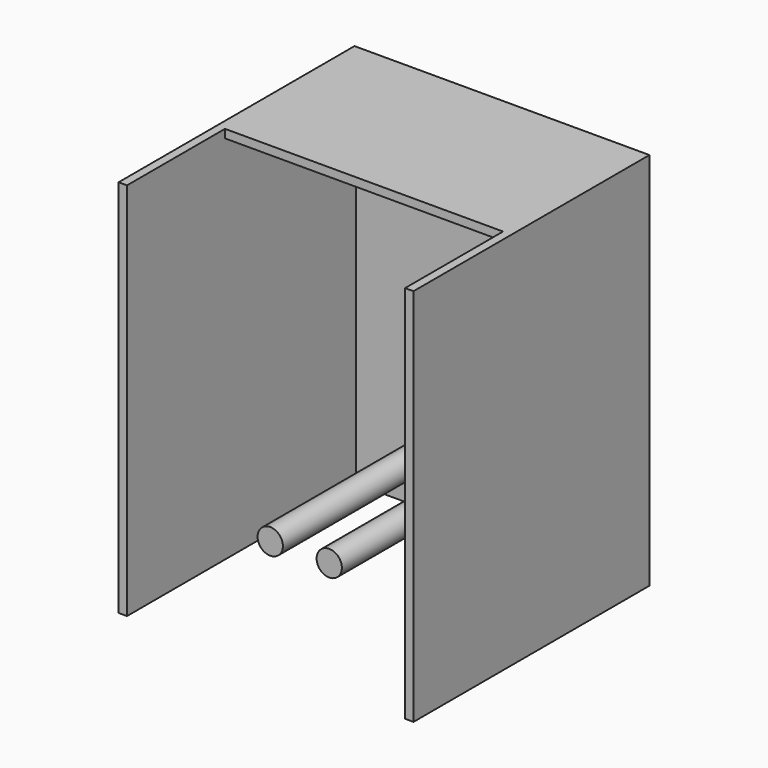
from build123d import *

# Parameters (mm, degrees)
F0_W     = 70
F0_H     = 90
F0_R     = 3
F1_DEPTH = 2
F2_W     = 68
F2_H     = 90
F3_DEPTH = 2
F4_W     = 68
F4_H     = 90
F5_DEPTH = 2
F6_W     = 66
F6_H     = 38.9259047806
F7_DEPTH = 2
F8_R     = 3
F9_DEPTH = 60


with BuildPart() as f1:
    # F0 (on Front) → F1 (new body)
    with BuildSketch(Plane.XZ):
        with Locations((35, 45)):
            Rectangle(F0_W, F0_H)
        with Locations((28, 20)):
            Circle(F0_R, mode=Mode.SUBTRACT)
        with Locations((42, 20)):
            Circle(F0_R, mode=Mode.SUBTRACT)
    extrude(amount=-F1_DEPTH)

    # F2 (on face) → F3 (join)
    with BuildSketch(Plane(origin=(0, 0, 0), x_dir=(0, -1, 0), z_dir=(-1, 0, 0))):
        with Locations((34, 45)):
            Rectangle(F2_W, F2_H)
    extrude(amount=-F3_DEPTH)

    # F4 (on face) → F5 (join)
    with BuildSketch(Plane.YZ.offset(70)):
        with Locations((-34, 45)):
            Rectangle(F4_W, F4_H)
    extrude(amount=-F5_DEPTH)

    # F6 (on face) → F7 (join)
    with BuildSketch(Plane.XY.offset(90)):
        with Locations((35, -19.4629523903)):
            Rectangle(F6_W, F6_H)
    extrude(amount=-F7_DEPTH)


with BuildPart() as f9:
    # F8 (on face) → F9 (new body)
    with BuildSketch(Plane(origin=(0, 2, 0), x_dir=(-1, 0, 0), z_dir=(0, 1, 0))):
        with Locations((-42, 20)):
            Circle(F8_R)
    extrude(amount=-F9_DEPTH)


with BuildPart() as f9b:
    # F8 (on face) → F9, piece 2 (new body)
    with BuildSketch(Plane(origin=(0, 2, 0), x_dir=(-1, 0, 0), z_dir=(0, 1, 0))):
        with Locations((-28, 20)):
            Circle(F8_R)
    extrude(amount=-F9_DEPTH)


solid = Compound([f1.part, f9.part, f9b.part])
